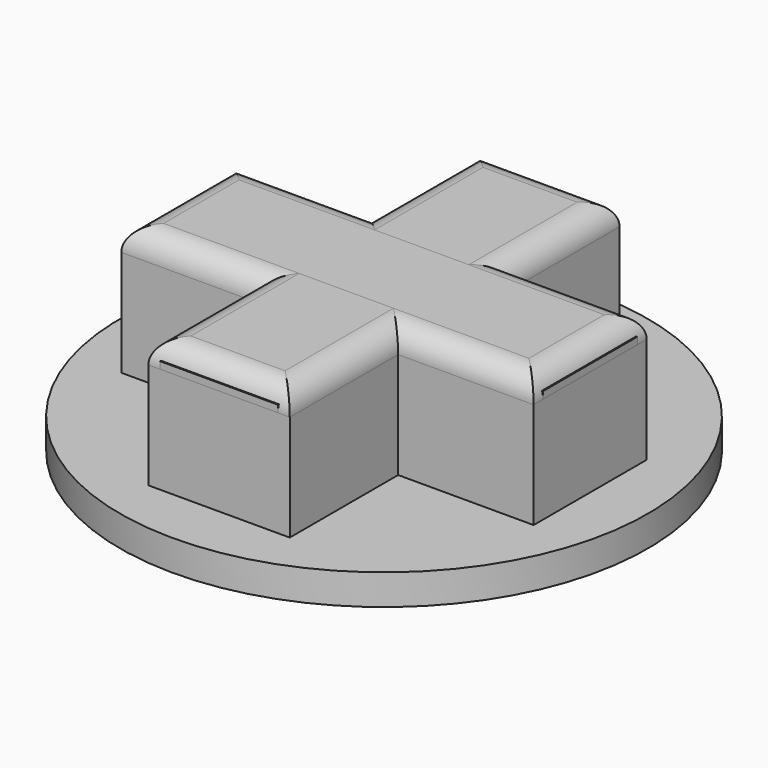
from build123d import *

# Parameters (mm, degrees)
BOX_W                  = 5
BOX_H                  = 6.25
BOX_DEPTH              = 4.8
BOX001_W               = 6.25
BOX001_H               = 5
BOX001_DEPTH           = 4.8
BOX003_W               = 5
BOX003_H               = 6.25
BOX003_DEPTH           = 4.8
BOX004_W               = 6.25
BOX004_H               = 5
BOX004_DEPTH           = 4.8
BOX005_W               = 5
BOX005_H               = 5
BOX005_DEPTH           = 4.8
BOX007_W               = 6
BOX007_H               = 17.5
BOX007_DEPTH           = 5.5
FILLET_R               = 1
BOX006_W               = 17.5
BOX006_H               = 6
BOX006_DEPTH           = 5.5
FILLET001_R            = 1
BOX002_W               = 3
BOX002_H               = 3
BOX002_DEPTH           = 10
BOX002_PLACEMENT_ANGLE = 45
CYLINDER_R             = 11.2
CYLINDER_DEPTH         = 1.3


with BuildPart() as obj1:
    # Box → Box (new body)
    with BuildSketch(Plane(origin=(-2.5, 2.5, 0), x_dir=(1, 0, 0), z_dir=(0, 0, 1))):
        with Locations((2.5, 3.125)):
            Rectangle(BOX_W, BOX_H)
    extrude(amount=BOX_DEPTH)


with BuildPart() as obj2:
    # Box001 → Box001 (new body)
    with BuildSketch(Plane(origin=(-8.75, -2.5, 0), x_dir=(1, 0, 0), z_dir=(0, 0, 1))):
        with Locations((3.125, 2.5)):
            Rectangle(BOX001_W, BOX001_H)
    extrude(amount=BOX001_DEPTH)


with BuildPart() as obj3:
    # Box003 → Box003 (new body)
    with BuildSketch(Plane(origin=(-2.5, -8.75, 0), x_dir=(1, 0, 0), z_dir=(0, 0, 1))):
        with Locations((2.5, 3.125)):
            Rectangle(BOX003_W, BOX003_H)
    extrude(amount=BOX003_DEPTH)


with BuildPart() as obj4:
    # Box004 → Box004 (new body)
    with BuildSketch(Plane(origin=(2.5, -2.5, 0), x_dir=(1, 0, 0), z_dir=(0, 0, 1))):
        with Locations((3.125, 2.5)):
            Rectangle(BOX004_W, BOX004_H)
    extrude(amount=BOX004_DEPTH)


with BuildPart() as obj5:
    # Box005 → Box005 (new body)
    with BuildSketch(Plane(origin=(-2.5, -2.5, 0), x_dir=(1, 0, 0), z_dir=(0, 0, 1))):
        with Locations((2.5, 2.5)):
            Rectangle(BOX005_W, BOX005_H)
    extrude(amount=BOX005_DEPTH)


with BuildPart() as fillet_body:
    # Box007 → Box007 (new body)
    with BuildSketch(Plane(origin=(-3, -8.75, 0), x_dir=(1, 0, 0), z_dir=(0, 0, 1))):
        with Locations((3, 8.75)):
            Rectangle(BOX007_W, BOX007_H)
    extrude(amount=BOX007_DEPTH)

    # Fillet
    fillet_edges = [fillet_body.edges().sort_by_distance(p)[0] for p in [
        (-3, 0, 5.5),
        (3, 0, 5.5),
        (0, -8.75, 5.5),
        (0, 8.75, 5.5),
    ]]
    fillet(fillet_edges, radius=FILLET_R)


with BuildPart() as fillet001:
    # Box006 → Box006 (new body)
    with BuildSketch(Plane(origin=(-8.75, -3, 0), x_dir=(1, 0, 0), z_dir=(0, 0, 1))):
        with Locations((8.75, 3)):
            Rectangle(BOX006_W, BOX006_H)
    extrude(amount=BOX006_DEPTH)

    # Fillet001
    fillet001_edges = [fillet001.edges().sort_by_distance(p)[0] for p in [
        (-8.75, 0, 5.5),
        (8.75, 0, 5.5),
        (0, -3, 5.5),
        (0, 3, 5.5),
    ]]
    fillet(fillet001_edges, radius=FILLET001_R)


with BuildPart() as cube_corner_cut:
    # Box002 → Box002 (new body)
    with BuildSketch(Plane.XY):
        with Locations((1.5, 1.5)):
            Rectangle(BOX002_W, BOX002_H)
    extrude(amount=BOX002_DEPTH)


with BuildPart() as cube_corner_cut_1:
    # Box002 placement: moved
    add(cube_corner_cut.part.moved(Location((-7.5, 4.5, -1.3))).rotate(Axis((-7.5, 4.5, -1.3), (0, 0, 1)), BOX002_PLACEMENT_ANGLE))


with BuildPart() as cut:
    # Cylinder → Cylinder (new body)
    with BuildSketch(Plane.XY.offset(-1.3)):
        Circle(CYLINDER_R)
    extrude(amount=CYLINDER_DEPTH)

    # Cut: cut Cube(corner_cut)
    add(cube_corner_cut_1.part, mode=Mode.SUBTRACT)


solid = Compound([obj1.part, obj2.part, obj3.part, obj4.part, obj5.part, fillet_body.part, fillet001.part, cut.part])
